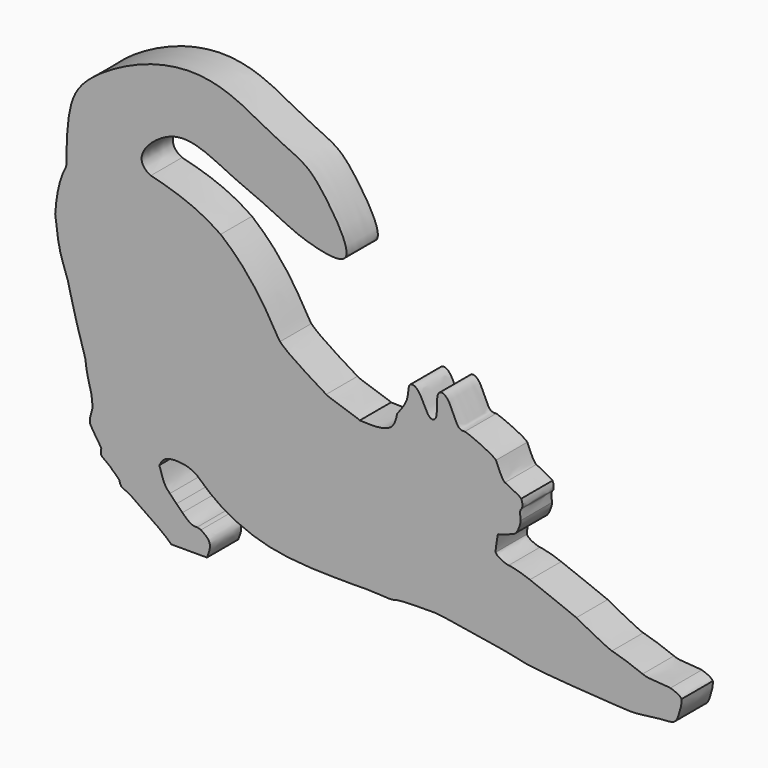
from build123d import *

# Parameters (mm, degrees)
F1_DEPTH = 4.826


with BuildPart() as f1:
    # F0 (on Front) → F1 (new body)
    with BuildSketch(Plane.XZ):
        with BuildLine():
            add(Edge.make_bspline(
                [(-36.4838305699, 1.8438686185), (-36.4788944863, 4.1266389108), (-36.3286103983, 8.4869798814), (-34.3870699861, 12.2922498594), (-27.138589351, 16.5643755511), (-20.1514435964, 17.5962648359), (-15.0598136178, 15.9239178991), (-11.1354483685, 13.5210782523), (-7.3020255149, 11.9668143487), (-5.1199901455, 10.0651721135), (0.3642641738, 1.6595222817), (-6.9335601327, 3.3271389662), (-9.2768818071, 4.3986549958), (-13.0615832691, 6.2557071924), (-16.1710464551, 7.4505558067), (-19.9752308273, 9.5362854691), (-24.4149643532, 10.0132855055), (-28.5183187485, 5.5018465291), (-26.0582268238, 4.2740306817)],
                knots=[0, 0, 0, 0, 0.0729883495, 0.1302696913, 0.2113403721, 0.2872313309, 0.3519121469, 0.4133740215, 0.4690526117, 0.5222367542, 0.5975019166, 0.6574551398, 0.7081879105, 0.7648881654, 0.81777783, 0.8758341132, 0.9380050027, 1, 1, 1, 1], degree=3))
            add(Edge.make_bspline(
                [(-36.4838305699, 1.8438686185), (-37.2608346955, 0.4260732295), (-37.6717922451, -1.266210479), (-37.8393402417, -3.7353701292)],
                knots=[0, 0, 0, 0, 1, 1, 1, 1], degree=3))
            add(Edge.make_bspline(
                [(-37.8393402417, -3.7353701292), (-37.6778932766, -5.1302062295), (-37.3836172792, -7.6726311318), (-36.2295150889, -10.2994656594), (-35.7873626607, -12.7649532815), (-34.753175434, -16.1665068826), (-34.1248624523, -18.2330962103)],
                knots=[0, 0, 0, 0, 0.2630552565, 0.4794815926, 0.6837628003, 1, 1, 1, 1], degree=3))
            add(Edge.make_bspline(
                [(-34.1248624523, -18.2330962103), (-34.0684032756, -18.9581742075), (-33.8515277877, -20.1040682607), (-33.6272758996, -20.8718781055)],
                knots=[0, 0, 0, 0, 1, 1, 1, 1], degree=3))
            add(Edge.make_bspline(
                [(-33.6272758996, -20.8718781055), (-33.3428125428, -21.8442577847), (-33.2402654312, -22.4540984653), (-33.2671957011, -23.3319716588)],
                knots=[0, 0, 0, 0, 1, 1, 1, 1], degree=3))
            add(Edge.make_bspline(
                [(-33.2671957011, -23.3319716588), (-33.2671957011, -23.3332651507), (-33.2670675172, -23.3345586427), (-33.2671957011, -23.3358521347)],
                knots=[0, 0, 0, 0, 1, 1, 1, 1], degree=3))
            add(Edge.make_bspline(
                [(-33.2671957011, -23.3358521347), (-33.276121961, -23.4031836359), (-33.2886839822, -23.4601555482), (-33.2995563066, -23.4977017747)],
                knots=[0, 0, 0, 0, 1, 1, 1, 1], degree=3))
            add(Edge.make_bspline(
                [(-33.2995563066, -23.4977017747), (-33.4772075243, -24.0997815035), (-33.6551151098, -24.7445814267), (-33.5422084094, -25.0708676908)],
                knots=[0, 0, 0, 0, 1, 1, 1, 1], degree=3))
            add(Edge.make_bspline(
                [(-33.5422084094, -25.0708676908), (-33.4494964981, -25.3401820425), (-32.6006394759, -26.6142483321), (-32.2885932767, -27.0777845825)],
                knots=[0, 0, 0, 0, 1, 1, 1, 1], degree=3))
            add(Edge.make_bspline(
                [(-32.2885932767, -27.0777845825), (-32.2406874613, -27.1684222454), (-32.1927816459, -27.2642338763), (-32.1539302743, -27.3419249664)],
                knots=[0, 0, 0, 0, 1, 1, 1, 1], degree=3))
            add(Edge.make_bspline(
                [(-32.1539302743, -27.3419249664), (-32.1863025329, -27.455868791), (-32.2924737526, -27.8870327828), (-32.1215696687, -28.1019622062)],
                knots=[0, 0, 0, 0, 1, 1, 1, 1], degree=3))
            add(Edge.make_bspline(
                [(-32.1215696687, -28.1019622062), (-31.9260542781, -28.3505573801), (-30.931650276, -28.940984028), (-30.855264331, -29.1455655156)],
                knots=[0, 0, 0, 0, 1, 1, 1, 1], degree=3))
            add(Edge.make_bspline(
                [(-30.855264331, -29.1455655156), (-30.8254790563, -29.2271370816), (-30.6985886588, -29.3100021396), (-30.5522842286, -29.4006398025)],
                knots=[0, 0, 0, 0, 1, 1, 1, 1], degree=3))
            add(Edge.make_bspline(
                [(-30.5522842286, -29.4006398025), (-30.35806233, -29.6013291611), (-30.1547859874, -29.8020185197), (-29.9489110079, -30.0001208943)],
                knots=[0, 0, 0, 0, 1, 1, 1, 1], degree=3))
            add(Edge.make_bspline(
                [(-29.9489110079, -30.0001208943), (-29.8530993771, -30.3108736015), (-29.774114795, -30.681173552), (-29.520334, -30.7601581341)],
                knots=[0, 0, 0, 0, 1, 1, 1, 1], degree=3))
            add(Edge.make_bspline(
                [(-29.520334, -30.7601581341), (-29.3882696347, -30.8015964896), (-28.9506265299, -31.015232421), (-28.4883954246, -31.2703067079)],
                knots=[0, 0, 0, 0, 1, 1, 1, 1], degree=3))
            add(Edge.make_bspline(
                [(-28.4883954246, -31.2703067079), (-28.1142033451, -31.5461001726), (-27.5781616255, -31.9189987601), (-27.0278681881, -32.2892987106)],
                knots=[0, 0, 0, 0, 1, 1, 1, 1], degree=3))
            Line((-27.0278681881, -32.2892987106), (-25.5790056856, -33.2927688096))
            add(Edge.make_bspline(
                [(-25.5790056856, -33.2927688096), (-25.4741279579, -33.3795143435), (-25.3498245444, -33.4572054336), (-25.2229458, -33.5322978866)],
                knots=[0, 0, 0, 0, 1, 1, 1, 1], degree=3))
            add(Edge.make_bspline(
                [(-25.2229458, -33.5322978866), (-24.7490499607, -33.8767163445), (-24.3321260337, -34.1939365117), (-24.1145979733, -34.3894519023)],
                knots=[0, 0, 0, 0, 1, 1, 1, 1], degree=3))
            Line((-24.1145979733, -34.3894519023), (-23.5241829785, -34.9242001299))
            Line((-23.5241829785, -34.9242001299), (-19.1335584784, -34.9242001299))
            add(Edge.make_bspline(
                [(-19.1335584784, -34.9242001299), (-18.9007716245, -34.317058195), (-18.4491765771, -33.1392327027), (-19.4090843017, -32.4821063158), (-19.8741816855, -32.1637134582)],
                knots=[0, 0, 0, 0, 0.515476986, 1, 1, 1, 1], degree=3))
            add(Edge.make_bspline(
                [(-19.8741816855, -32.1637134582), (-20.0632179632, -32.093794973), (-20.2380141761, -32.0471826496), (-20.3765576545, -32.0432905206)],
                knots=[0, 0, 0, 0, 1, 1, 1, 1], degree=3))
            add(Edge.make_bspline(
                [(-20.3765576545, -32.0432905206), (-20.9488521085, -32.0277569638), (-21.2246339202, -31.9397062848), (-22.1646529938, -31.0359515988)],
                knots=[0, 0, 0, 0, 1, 1, 1, 1], degree=3))
            Line((-22.1646529938, -31.0359515988), (-22.8884374991, -30.3108736015))
            add(Edge.make_bspline(
                [(-22.8884374991, -30.3108736015), (-23.1305652132, -30.0648654115), (-23.398586073, -29.7864849629), (-23.7093387802, -29.4653726667)],
                knots=[0, 0, 0, 0, 1, 1, 1, 1], degree=3))
            add(Edge.make_bspline(
                [(-23.7093387802, -29.4653726667), (-24.3567256874, -28.7985600738), (-24.4253506806, -28.6574296115), (-25.0041242476, -26.8071767388)],
                knots=[0, 0, 0, 0, 1, 1, 1, 1], degree=3))
            add(Edge.make_bspline(
                [(-25.0041242476, -26.8071767388), (-24.7948098479, -26.4246340418), (-24.2944842441, -25.5102396849), (-21.5034187945, -25.6712308998), (-20.6890726771, -26.1984870371), (-20.3428919039, -26.4226250704)],
                knots=[0, 0, 0, 0, 0.2925382182, 0.6992560517, 1, 1, 1, 1], degree=3))
            add(Edge.make_bspline(
                [(-20.3428919039, -26.4226250704), (-19.4996876386, -27.1958666709), (-17.5175860968, -29.0135085304), (-11.1641434679, -31.9448719057), (-4.7388083926, -31.9665702971), (-1.189107447, -31.9785576564)],
                knots=[0, 0, 0, 0, 0.2488823317, 0.5850421704, 1, 1, 1, 1], degree=3))
            add(Edge.make_bspline(
                [(-1.189107447, -31.9785576564), (-0.1519832505, -31.9384127928), (1.3616237692, -31.9578384786), (2.1773394294, -32.0225829959)],
                knots=[0, 0, 0, 0, 1, 1, 1, 1], degree=3))
            add(Edge.make_bspline(
                [(2.1773394294, -32.0225829959), (3.3905533307, -32.1196881187), (3.7621584263, -32.1054480539), (4.2010833699, -31.9332388249)],
                knots=[0, 0, 0, 0, 1, 1, 1, 1], degree=3))
            add(Edge.make_bspline(
                [(4.2010833699, -31.9332388249), (5.3508578991, -31.7247768615), (7.2477230952, -31.8296545892), (8.9309407069, -31.7752696608)],
                knots=[0, 0, 0, 0, 1, 1, 1, 1], degree=3))
            add(Edge.make_bspline(
                [(8.9309407069, -31.7752696608), (8.9387133118, -31.7765631528), (8.9477794087, -31.7752696608), (8.9555403605, -31.7752696608)],
                knots=[0, 0, 0, 0, 1, 1, 1, 1], degree=3))
            add(Edge.make_bspline(
                [(8.9555403605, -31.7752696608), (9.3426906659, -31.7972823306), (9.7000440436, -31.8309480812), (9.9952631941, -31.8775604046)],
                knots=[0, 0, 0, 0, 1, 1, 1, 1], degree=3))
            add(Edge.make_bspline(
                [(9.9952631941, -31.8775604046), (11.5671356181, -32.1209816107), (16.8861144579, -33.0273349338), (17.1683753824, -33.0338023936)],
                knots=[0, 0, 0, 0, 1, 1, 1, 1], degree=3))
            add(Edge.make_bspline(
                [(17.1683753824, -33.0338023936), (17.4519414521, -33.0415749986), (18.8995104626, -33.4041139972), (20.3898113206, -33.6863749218)],
                knots=[0, 0, 0, 0, 1, 1, 1, 1], degree=3))
            add(Edge.make_bspline(
                [(20.3898113206, -33.6863749218), (21.8801121786, -33.9673423544), (30.2017054042, -34.5098631868), (30.8490923113, -34.5279953807)],
                knots=[0, 0, 0, 0, 1, 1, 1, 1], degree=3))
            add(Edge.make_bspline(
                [(30.8490923113, -34.5279953807), (31.6415852987, -34.5501960254), (33.4699212757, -34.8165705217), (36.4881992045, -34.1633530485), (38.7557113241, -34.2963140581), (39.1020926992, -32.6101290506), (39.3944802589, -31.9065066823), (39.3545478467, -31.2703067079)],
                knots=[0, 0, 0, 0, 0.2247603684, 0.4743750018, 0.6693808788, 0.8309897185, 1, 1, 1, 1], degree=3))
            add(Edge.make_bspline(
                [(39.3545478467, -31.2703067079), (39.241897514, -30.9440204439), (38.4805667823, -30.6397468496), (37.9989099911, -30.5050838471)],
                knots=[0, 0, 0, 0, 1, 1, 1, 1], degree=3))
            add(Edge.make_bspline(
                [(37.9989099911, -30.5050838471), (37.5159480549, -30.3717259898), (35.4481787749, -30.4804841935), (34.5677185975, -30.0920520492)],
                knots=[0, 0, 0, 0, 1, 1, 1, 1], degree=3))
            add(Edge.make_bspline(
                [(34.5677185975, -30.0920520492), (33.6872700731, -29.7049133969), (31.3204011667, -28.9125038984), (30.796012528, -28.8179857596)],
                knots=[0, 0, 0, 0, 1, 1, 1, 1], degree=3))
            add(Edge.make_bspline(
                [(30.796012528, -28.8179857596), (30.2729173813, -28.7234559676), (26.6009034187, -26.7644448913), (26.4028010441, -26.6375544938)],
                knots=[0, 0, 0, 0, 1, 1, 1, 1], degree=3))
            add(Edge.make_bspline(
                [(26.4028010441, -26.6375544938), (26.2034051775, -26.5106757494), (21.6340923355, -24.7730615563), (20.6733657372, -24.3833359201)],
                knots=[0, 0, 0, 0, 1, 1, 1, 1], degree=3))
            add(Edge.make_bspline(
                [(20.6733657372, -24.3833359201), (19.7113339937, -23.9936102838), (18.3867749048, -23.6763784636), (18.0630756247, -23.6673240197)],
                knots=[0, 0, 0, 0, 1, 1, 1, 1], degree=3))
            add(Edge.make_bspline(
                [(18.0630756247, -23.6673240197), (17.7393763446, -23.6582579228), (16.5352285401, -23.1843620835), (16.465310055, -22.7765042534)],
                knots=[0, 0, 0, 0, 1, 1, 1, 1], degree=3))
            add(Edge.make_bspline(
                [(16.465310055, -22.7765042534), (16.4199912235, -22.5149625066), (16.5922004524, -21.4648917373), (16.7242648178, -20.742400724)],
                knots=[0, 0, 0, 0, 1, 1, 1, 1], degree=3))
            add(Edge.make_bspline(
                [(16.7242648178, -20.742400724), (16.7281452937, -20.7281490061), (16.7566370764, -20.7087349734), (16.7644096814, -20.7100284654)],
                knots=[0, 0, 0, 0, 1, 1, 1, 1], degree=3))
            add(Edge.make_bspline(
                [(16.7644096814, -20.7100284654), (17.128242172, -20.7190945623), (18.3142694357, -20.1934007786), (18.7221272658, -20.0419107274)],
                knots=[0, 0, 0, 0, 1, 1, 1, 1], degree=3))
            add(Edge.make_bspline(
                [(18.7221272658, -20.0419107274), (19.1312785878, -19.8904206762), (19.5663230555, -18.6875663638), (19.5365377809, -18.3224403812)],
                knots=[0, 0, 0, 0, 1, 1, 1, 1], degree=3))
            add(Edge.make_bspline(
                [(19.5365377809, -18.3224403812), (19.5054706673, -17.9573143986), (19.364340205, -17.2684774829), (19.612935379, -17.0315353898)],
                knots=[0, 0, 0, 0, 1, 1, 1, 1], degree=3))
            add(Edge.make_bspline(
                [(19.612935379, -17.0315353898), (19.8615305529, -16.7945932967), (19.7165196147, -16.1446077525), (19.6012822981, -15.9387327729)],
                knots=[0, 0, 0, 0, 1, 1, 1, 1], degree=3))
            add(Edge.make_bspline(
                [(19.6012822981, -15.9387327729), (19.4847514895, -15.7341629384), (18.0048102204, -15.0479246597), (17.6060184872, -14.8342887283)],
                knots=[0, 0, 0, 0, 1, 1, 1, 1], degree=3))
            add(Edge.make_bspline(
                [(17.6060184872, -14.8342887283), (17.207226754, -14.6219346358), (16.6776524944, -13.1484724796), (16.4847357408, -12.7794543681)],
                knots=[0, 0, 0, 0, 1, 1, 1, 1], degree=3))
            add(Edge.make_bspline(
                [(16.4847357408, -12.7794543681), (16.2969813019, -12.4182088614), (13.5481593642, -11.1402620959), (12.6689926788, -10.9097874627)],
                knots=[0, 0, 0, 0, 1, 1, 1, 1], degree=3))
            add(Edge.make_bspline(
                [(4.3148719706, -11.6622969508), (4.8833408967, -10.9709811956), (5.8026313511, -9.7244339992), (5.603093375, -7.743965863), (7.1686942419, -8.0306687031), (8.0411591013, -11.1215955233), (9.4009968605, -10.7759735563), (9.0600250175, -8.3453683953), (9.6386200096, -7.3699889829), (10.9167718636, -8.1425246864), (11.6567269287, -10.9796928503), (12.408137927, -10.9278016863), (12.6689926788, -10.9097874627)],
                knots=[0, 0, 0, 0, 0.1277471087, 0.2268886338, 0.3054494622, 0.4441957065, 0.511591716, 0.6341745138, 0.7081833993, 0.7947249588, 0.9288587756, 1, 1, 1, 1], degree=3))
            add(Edge.make_bspline(
                [(-0.3021798097, -13.9201628003), (0.5002553281, -13.9517795661), (2.0029737565, -14.0123689065), (3.8662595119, -13.5114467978), (4.1987706535, -12.2851828543), (4.3148719706, -11.6622969508)],
                knots=[0, 0, 0, 0, 0.3685090306, 0.6818507925, 1, 1, 1, 1], degree=3))
            add(Edge.make_bspline(
                [(-0.3021798097, -13.9201628003), (-0.8187958434, -13.5420902449), (-3.676399291, -12.8998773057), (-4.4338495469, -12.4350475633)],
                knots=[0, 0, 0, 0, 1, 1, 1, 1], degree=3))
            add(Edge.make_bspline(
                [(-4.4338495469, -12.4350475633), (-5.1912998027, -11.9702178209), (-9.3346109677, -9.5140047435), (-10.1192478612, -8.562332589)],
                knots=[0, 0, 0, 0, 1, 1, 1, 1], degree=3))
            add(Edge.make_bspline(
                [(-10.1192478612, -8.562332589), (-10.9038964078, -7.6119655795), (-12.6906982552, -3.1902623128), (-17.4464487378, 0.6992680572)],
                knots=[0, 0, 0, 0, 1, 1, 1, 1], degree=3))
            add(Edge.make_bspline(
                [(-17.4464487378, 0.6992680572), (-20.3364638821, 2.7642807379), (-23.748072622, 3.7144015), (-26.0582268238, 4.2740306817)],
                knots=[0.066146453, 0.066146453, 0.066146453, 0.066146453, 0.6526568874, 0.6526568874, 0.6526568874, 0.6526568874], degree=3))
        make_face()
    extrude(amount=F1_DEPTH)


solid = f1.part
